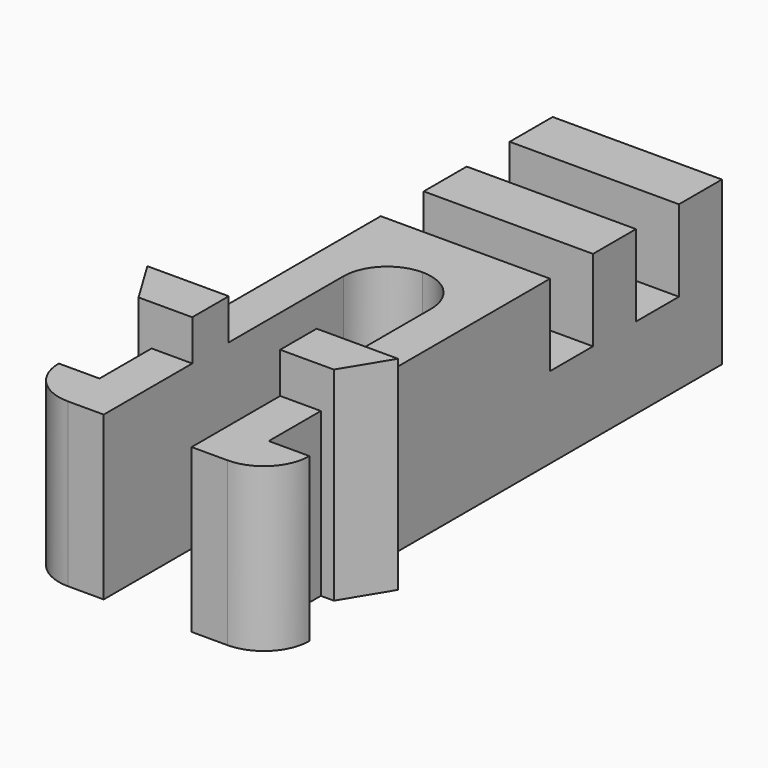
from build123d import *

# Parameters (mm, degrees)
PAD017_DEPTH           = 5
PAD020_DEPTH           = 6.25
SKETCH114_W            = 5.2
SKETCH114_H            = 1.65
PAD085_DEPTH           = 2.5
SKETCH115_W            = 5.2
SKETCH115_H            = 1.65
PAD086_DEPTH           = 5
LINEARPATTERN027_COUNT = 2
LINEARPATTERN027_PITCH = 3.3


with BuildPart() as obj1:
    # Sketch034 → Pad017 (new body)
    with BuildSketch(Plane.XY):
        with BuildLine():
            Line((-1.35, -1.8), (-1.35, 6))
            ThreePointArc((0, 7.35), (-0.954594, 6.954594), (-1.35, 6))
            Line((0, 9), (0, 7.35))
            Line((-2.6, 9), (0, 9))
            Line((-2.6, -1.8), (-2.6, 9))
            Line((-3.85, -1.8), (-2.6, -1.8))
            ThreePointArc((-3.85, -1.8), (-3.439949, -2.789949), (-2.45, -3.2))
            Line((-1.35, -3.2), (-2.45, -3.2))
            Line((-1.35, -1.8), (-1.35, -3.2))
        make_face()
    extrude(amount=PAD017_DEPTH)

    # Sketch037 → Pad020 (join)
    with BuildSketch(Plane.XY):
        Polygon((-1.35, 0.2), (-1.35, 1.6), (-2.6, 1.6), (-3.85, 1.6), (-3, 0.2), (-2.6, 0.2), align=None)
    extrude(amount=PAD020_DEPTH)


with BuildPart() as obj2:
    # Mirror001: instance of _obj1
    add(obj1.part.mirror(Plane(origin=(0, 0, 0), x_dir=(0, 1, 0), z_dir=(-1, 0, 0))))


with BuildPart() as body043:
    # Fusion001 base: copy of _obj1
    add(obj1.part)

    # Fusion001: union _obj2)
    add(obj2.part)

    # Sketch114 → Pad085 (new body)
    with BuildSketch(Plane.XY):
        with Locations((0, 9.825)):
            Rectangle(SKETCH114_W, SKETCH114_H)
    pad085 = extrude(amount=PAD085_DEPTH)

    # Sketch115 → Pad086 (join)
    with BuildSketch(Plane.XY):
        with Locations((0, 11.475)):
            Rectangle(SKETCH115_W, SKETCH115_H)
    pad086 = extrude(amount=PAD086_DEPTH)

    # LinearPattern027: Pad085, Pad086 ×2
    with Locations(*[(0, i * LINEARPATTERN027_PITCH, 0) for i in range(1, LINEARPATTERN027_COUNT)]):
        add(pad085)
        add(pad086)


solid = body043.part
